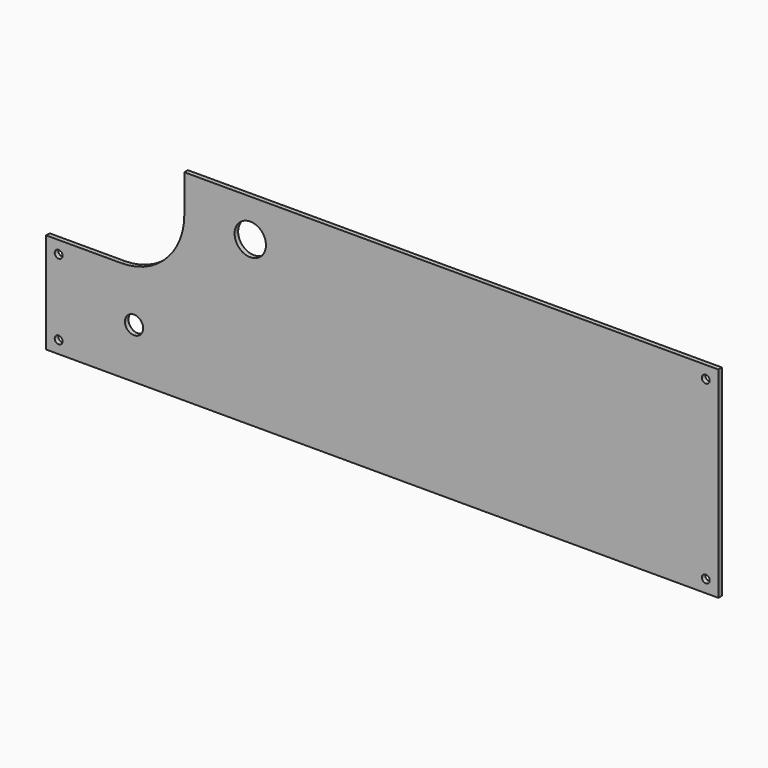
from build123d import *

# Parameters (mm, degrees)
F0_R     = 3.96875
F0_R_2   = 9.2075
F0_R_3   = 15.875
F1_DEPTH = 4.5212


with BuildPart() as f1:
    # F0 (on Front) → F1 (new body)
    with BuildSketch(Plane.XZ):
        with BuildLine():
            Line((-679.45, 0), (0, 0))
            Line((0, 0), (0, 203.2))
            Line((0, 203.2), (-539.75, 203.2))
            Line((-539.75, 203.2), (-539.75, 165.1))
            ThreePointArc((-539.75, 165.1), (-558.348719, 120.198719), (-603.25, 101.6))
            Line((-603.25, 101.6), (-679.45, 101.6))
            Line((-679.45, 101.6), (-679.45, 0))
        make_face()
        with Locations((-666.75, 12.7)):
            Circle(F0_R, mode=Mode.SUBTRACT)
        with Locations((-590.55, 50.8)):
            Circle(F0_R_2, mode=Mode.SUBTRACT)
        with Locations((-666.75, 88.9)):
            Circle(F0_R, mode=Mode.SUBTRACT)
        with Locations((-12.7, 12.7)):
            Circle(F0_R, mode=Mode.SUBTRACT)
        with Locations((-473.075, 165.1)):
            Circle(F0_R_3, mode=Mode.SUBTRACT)
        with Locations((-12.7, 190.5)):
            Circle(F0_R, mode=Mode.SUBTRACT)
    extrude(amount=F1_DEPTH)


solid = f1.part
